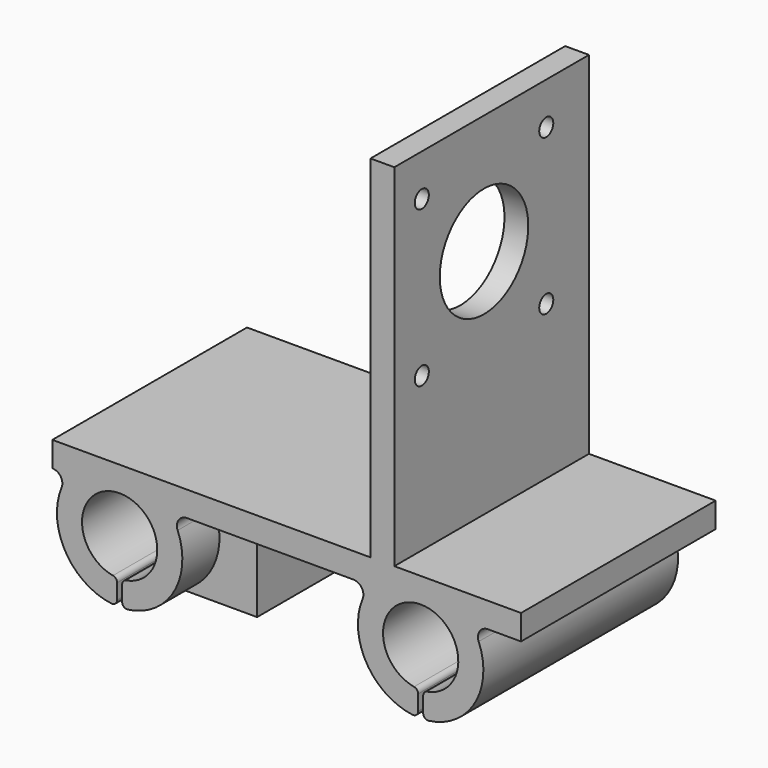
from build123d import *

# Parameters (mm, degrees)
F2_DEPTH      = 24.25
F2_DEPTH_BACK = 24.25
F3_R          = 11.025
F3_R_2        = 1.75
F4_DEPTH      = 4.75
F6_DEPTH      = 15
F6_DEPTH_BACK = 15


with BuildPart() as f2:
    # F1 (on Front) → F2 (new body, two sides)
    with BuildSketch(Plane.XZ) as f2_sk:
        with BuildLine():
            ThreePointArc((-31.323529, -7.382294), (-30, 7.5), (-28.676471, -7.382294))
            ThreePointArc((-28.676471, -7.382294), (-29.266965, -7.724911), (-29.5, -8.3666))
            Line((-29.5, -8.3666), (-29.5, -11.401754))
            ThreePointArc((-29.5, -11.401754), (-29.15938, -12.153564), (-28.369565, -12.393211))
            ThreePointArc((-28.369565, -12.393211), (-19.18639, -6.270235), (-18.434131, 4.741379))
            ThreePointArc((-18.434131, 4.741379), (-18.244502, 6.614172), (-16.583592, 7.5))
            Line((-16.583592, 7.5), (16.583592, 7.5))
            ThreePointArc((16.583592, 7.5), (18.244502, 6.614172), (18.434131, 4.741379))
            ThreePointArc((18.434131, 4.741379), (19.18639, -6.270235), (28.369565, -12.393211))
            ThreePointArc((28.369565, -12.393211), (29.15938, -12.153564), (29.5, -11.401754))
            Line((29.5, -11.401754), (29.5, -8.3666))
            ThreePointArc((29.5, -8.3666), (29.266965, -7.724911), (28.676471, -7.382294))
            ThreePointArc((28.676471, -7.382294), (30, 7.5), (31.323529, -7.382294))
            ThreePointArc((31.323529, -7.382294), (30.733035, -7.724911), (30.5, -8.3666))
            Line((30.5, -8.3666), (30.5, -11.401754))
            ThreePointArc((30.5, -11.401754), (30.84062, -12.153564), (31.630435, -12.393211))
            ThreePointArc((31.630435, -12.393211), (40.81361, -6.270235), (41.565869, 4.741379))
            ThreePointArc((41.565869, 4.741379), (41.755498, 6.614172), (43.416408, 7.5))
            Line((43.416408, 7.5), (50, 7.5))
            Line((50, 7.5), (50, 12.5))
            Line((50, 12.5), (24.75, 12.5))
            Line((24.75, 12.5), (24.75, 82.5))
            Line((24.75, 82.5), (20, 82.5))
            Line((20, 82.5), (20, 12.5))
            Line((20, 12.5), (-43.416408, 12.5))
            Line((-43.416408, 12.5), (-43.416408, 7.5))
            ThreePointArc((-43.416408, 7.5), (-41.755498, 6.614172), (-41.565869, 4.741379))
            ThreePointArc((-41.565869, 4.741379), (-40.81361, -6.270235), (-31.630435, -12.393211))
            ThreePointArc((-31.630435, -12.393211), (-30.84062, -12.153564), (-30.5, -11.401754))
            Line((-30.5, -11.401754), (-30.5, -8.3666))
            ThreePointArc((-30.5, -8.3666), (-30.733035, -7.724911), (-31.323529, -7.382294))
        make_face()
    extrude(amount=F2_DEPTH)
    extrude(f2_sk.sketch, amount=-F2_DEPTH_BACK)

    # F3 (on face) → F4 (cut, through all)
    with BuildSketch(Plane(origin=(20, 0, 0), x_dir=(0, -1, 0), z_dir=(-1, 0, 0))):
        with Locations((1.9, 58.65)):
            Circle(F3_R)
        with Locations((-13.6, 43.15)):
            Circle(F3_R_2)
        with Locations((17.4, 43.15)):
            Circle(F3_R_2)
        with Locations((17.4, 74.15)):
            Circle(F3_R_2)
        with Locations((-13.6, 74.15)):
            Circle(F3_R_2)
    extrude(amount=-F4_DEPTH, mode=Mode.SUBTRACT)

    # F5 (on Front) → F6 (join, two sides)
    with BuildSketch(Plane.XZ) as f6_sk:
        Polygon((-10, -11.5), (-10, 9.493519), (-19.701663, 9.493519), (-19.701663, 0), (-27.352255, -11.5), align=None)
    extrude(amount=F6_DEPTH)
    extrude(f6_sk.sketch, amount=-F6_DEPTH_BACK)


solid = f2.part
